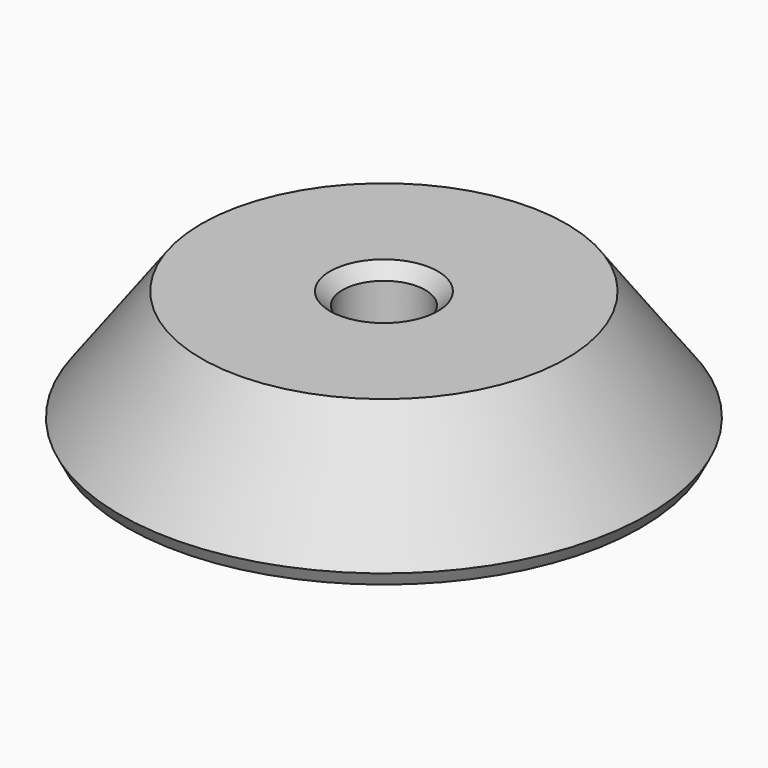
from build123d import *

# Parameters (mm, degrees)
F2_SIZE = 2
F3_SIZE = 1.5
F4_SIZE = 1.5


with BuildPart() as f1:
    # F0 (on Front) → F1 (revolve)
    with BuildSketch(Plane.XZ):
        Polygon((-33, 0), (-11.5, 0), (-11.5, 7.5), (-5, 7.5), (-5, 15), (-22, 15), align=None)
    revolve(axis=Axis((0, 0, 3.75), (0, 0, -1)))

    # F2
    f2_edges = [f1.edges().sort_by_distance(p)[0] for p in [
        (33, 0, 0),
    ]]
    chamfer(f2_edges, length=F2_SIZE)

    # F3
    f3_edges = [f1.edges().sort_by_distance(p)[0] for p in [
        (5, 0, 15),
    ]]
    chamfer(f3_edges, length=F3_SIZE)

    # F4
    f4_edges = [f1.edges().sort_by_distance(p)[0] for p in [
        (11.5, 0, 0),
    ]]
    chamfer(f4_edges, length=F4_SIZE)


solid = f1.part
